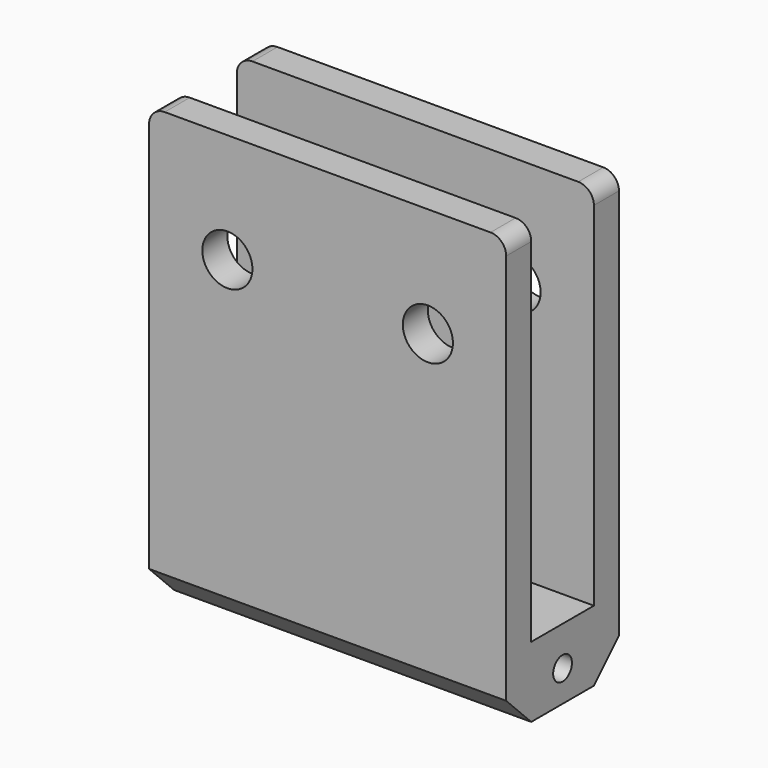
from build123d import *

# Parameters (mm, degrees)
SKETCH_W        = 22.8
SKETCH_H        = 9
PAD_DEPTH       = 28
FILLET_R        = 1
FILLET001_R     = 1
SKETCH001_W     = 27.634385
SKETCH001_H     = 5
POCKET_DEPTH    = 23.5
SKETCH002_R     = 0.75
POCKET001_DEPTH = 30
SKETCH003_R     = 1.6
POCKET002_DEPTH = 20
CHAMFER_SIZE    = 2
CHAMFER001_SIZE = 2


with BuildPart() as part:
    # Sketch → Pad (new body)
    with BuildSketch(Plane.XY):
        Rectangle(SKETCH_W, SKETCH_H)
    extrude(amount=PAD_DEPTH)

    # Fillet
    fillet_edges = [part.edges().sort_by_distance(p)[0] for p in [
        (11.4, 0, 28),
    ]]
    fillet(fillet_edges, radius=FILLET_R)

    # Fillet001
    fillet001_edges = [part.edges().sort_by_distance(p)[0] for p in [
        (-11.4, 0, 28),
    ]]
    fillet(fillet001_edges, radius=FILLET001_R)

    # Sketch001 (on Face2 of Fillet001) → Pocket (cut)
    with BuildSketch(Plane.XY.offset(28)):
        with Locations((-0.375196, 0)):
            Rectangle(SKETCH001_W, SKETCH001_H)
    extrude(amount=-POCKET_DEPTH, mode=Mode.SUBTRACT)

    # Sketch002 (on Face6 of Pocket) → Pocket001 (cut)
    with BuildSketch(Plane.YZ.offset(11.4)):
        with Locations((0, 2)):
            Circle(SKETCH002_R)
    extrude(amount=-POCKET001_DEPTH, mode=Mode.SUBTRACT)

    # Sketch003 (on Face1 of Pocket) → Pocket002 (cut)
    with BuildSketch(Plane(origin=(0, 4.5, 0), x_dir=(-1, 0, 0), z_dir=(0, 1, 0))):
        with Locations((-6.4, 21)):
            Circle(SKETCH003_R)
        with Locations((6.4, 21)):
            Circle(SKETCH003_R)
    extrude(amount=-POCKET002_DEPTH, mode=Mode.SUBTRACT)

    # Chamfer
    chamfer_edges = [part.edges().sort_by_distance(p)[0] for p in [
        (0, -4.5, 0),
    ]]
    chamfer(chamfer_edges, length=CHAMFER_SIZE)

    # Chamfer001
    chamfer001_edges = [part.edges().sort_by_distance(p)[0] for p in [
        (0, 4.5, 0),
    ]]
    chamfer(chamfer001_edges, length=CHAMFER001_SIZE)


solid = part.part
